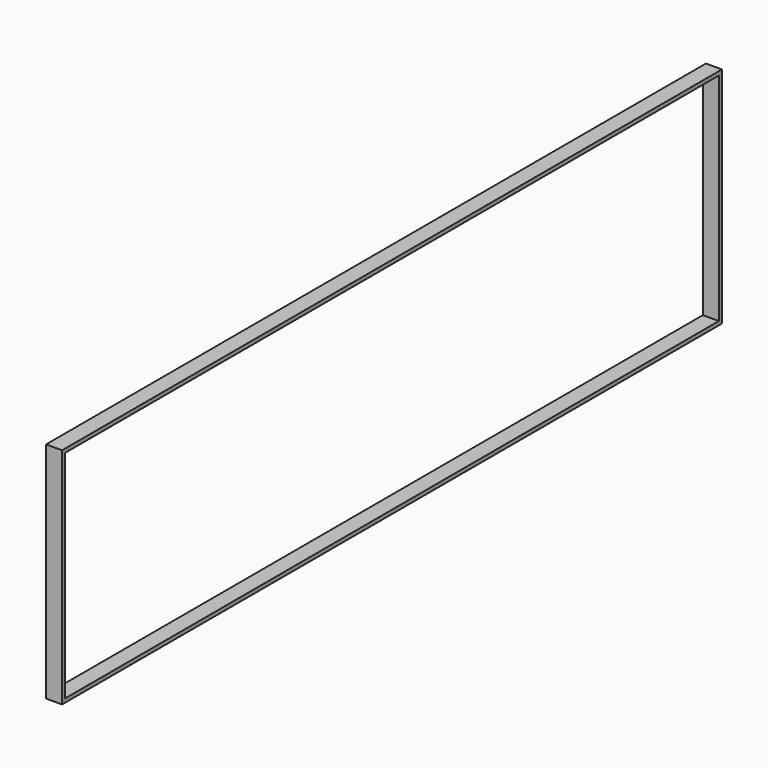
from build123d import *

# Parameters (mm, degrees)
F0_W     = 2580
F0_H     = 700
F0_W_2   = 2556
F0_H_2   = 676
F1_DEPTH = 50


with BuildPart() as f1:
    # F0 (on Right) → F1 (new body)
    with BuildSketch(Plane.YZ):
        Rectangle(F0_W, F0_H)
        Rectangle(F0_W_2, F0_H_2, mode=Mode.SUBTRACT)
    extrude(amount=-F1_DEPTH)


solid = f1.part
